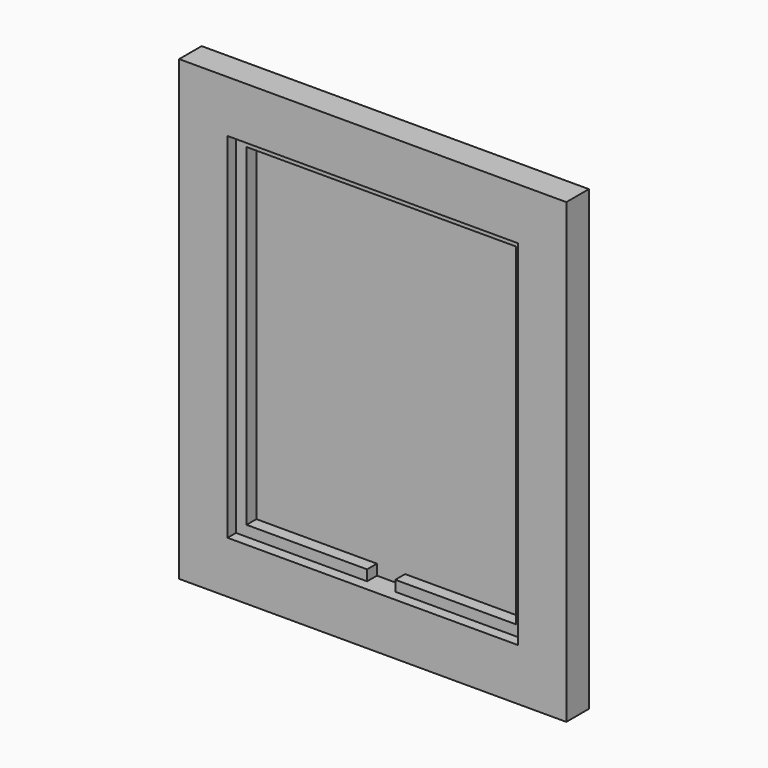
from build123d import *

# Parameters (mm, degrees)
F0_W     = 110
F0_H     = 130
F1_DEPTH = 8
F2_W     = 82.5
F2_H     = 100.5
F3_DEPTH = 3
F4_W     = 8
F4_H     = 3
F5_DEPTH = 3.5


with BuildPart() as f1:
    # F0 (on Front) → F1 (new body)
    with BuildSketch(Plane.XZ):
        with Locations((-4.093055, 2.210701)):
            Rectangle(F0_W, F0_H)
    extrude(amount=F1_DEPTH)

    # F2 (on face) → F3 (cut)
    with BuildSketch(Plane.XZ.offset(8)):
        with Locations((-4.093055, 2.210701)):
            Rectangle(F2_W, F2_H)
    extrude(amount=-F3_DEPTH, mode=Mode.SUBTRACT)

    # F4 (on face) → F5 (cut)
    with BuildSketch(Plane.XZ.offset(5)):
        Polygon((34.156945, 49.460701), (-42.343055, 49.460701), (-42.343055, -45.039299), (-8.093055, -45.039299), (-0.093055, -45.039299), (34.156945, -45.039299), align=None)
        with Locations((-4.093055, -46.539299)):
            Rectangle(F4_W, F4_H)
    extrude(amount=-F5_DEPTH, mode=Mode.SUBTRACT)


solid = f1.part
